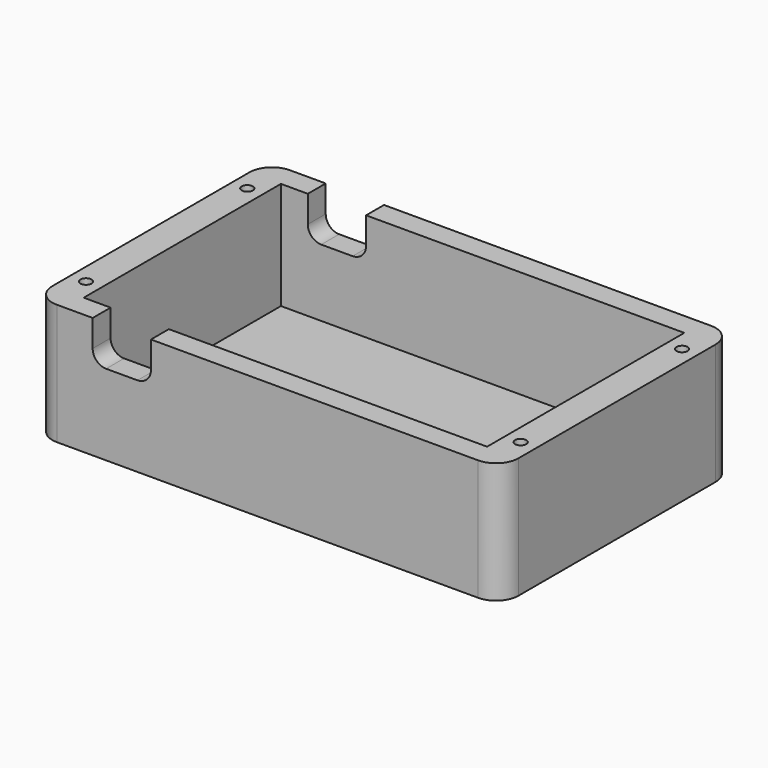
from build123d import *

# Parameters (mm, degrees)
F1_DEPTH = 3
F2_W     = 90
F2_H     = 55
F3_DEPTH = 24
F4_R     = 1.25
F5_DEPTH = 10
F6_W     = 13
F6_H     = 65
F7_DEPTH = 9
F8_R     = 3


with BuildPart() as f1:
    # F0 (on Top) → F1 (new body)
    with BuildSketch(Plane.XY):
        with BuildLine():
            ThreePointArc((0, 5), (1.464466, 1.464466), (5, 0))
            Line((5, 0), (99, 0))
            ThreePointArc((99, 0), (102.535534, 1.464466), (104, 5))
            Line((104, 5), (104, 60))
            ThreePointArc((104, 60), (102.535534, 63.535534), (99, 65))
            Line((99, 65), (5, 65))
            ThreePointArc((5, 65), (1.464466, 63.535534), (0, 60))
            Line((0, 60), (0, 5))
        make_face()
    extrude(amount=F1_DEPTH)

    # F2 (on face) → F3 (join)
    with BuildSketch(Plane.XY.offset(3)):
        with BuildLine():
            Line((0, 60), (0, 5))
            ThreePointArc((0, 5), (1.464466, 1.464466), (5, 0))
            Line((5, 0), (99, 0))
            ThreePointArc((99, 0), (102.535534, 1.464466), (104, 5))
            Line((104, 5), (104, 60))
            ThreePointArc((104, 60), (102.535534, 63.535534), (99, 65))
            Line((99, 65), (5, 65))
            ThreePointArc((5, 65), (1.464466, 63.535534), (0, 60))
        make_face()
        with Locations((52, 32.5)):
            Rectangle(F2_W, F2_H, mode=Mode.SUBTRACT)
    extrude(amount=F3_DEPTH)

    # F4 (on face) → F5 (cut)
    with BuildSketch(Plane.XY.offset(27)):
        with Locations((3.5, 10)):
            Circle(F4_R)
        with Locations((100.5, 55)):
            Circle(F4_R)
        with Locations((100.5, 10)):
            Circle(F4_R)
        with Locations((3.5, 55)):
            Circle(F4_R)
    extrude(amount=-F5_DEPTH, mode=Mode.SUBTRACT)

    # F6 (on face) → F7 (cut)
    with BuildSketch(Plane.XY.offset(27)):
        with Locations((19.5, 32.5)):
            Rectangle(F6_W, F6_H)
    extrude(amount=-F7_DEPTH, mode=Mode.SUBTRACT)

    # F8
    f8_edges = [f1.edges().sort_by_distance(p)[0] for p in [
        (26, 2.5, 18),
        (26, 62.5, 18),
        (13, 62.5, 18),
        (13, 2.5, 18),
    ]]
    fillet(f8_edges, radius=F8_R)


solid = f1.part
